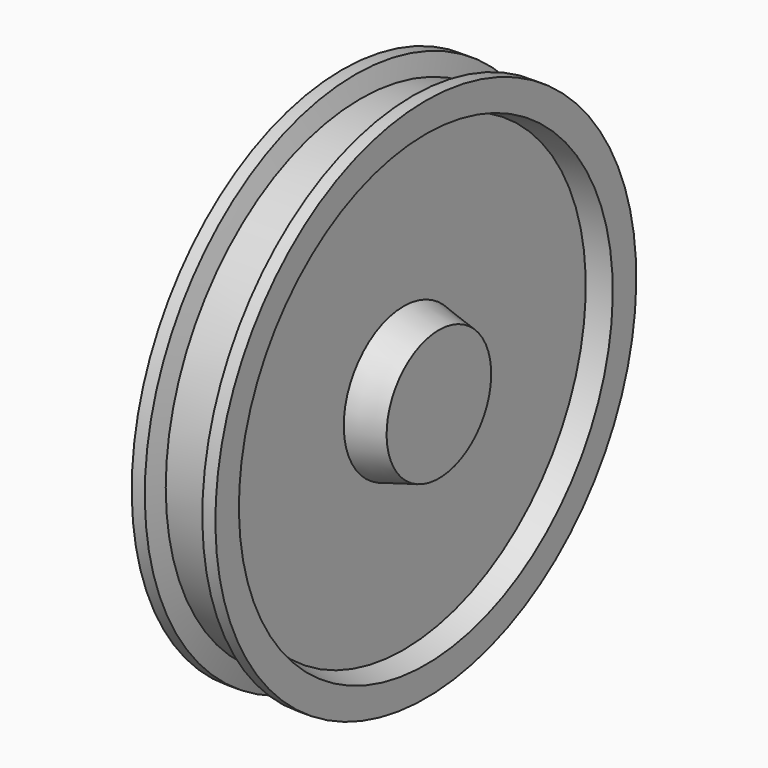
from build123d import *


with BuildPart() as f1:
    # F0 (on Front) → F1 (revolve)
    with BuildSketch(Plane.XZ):
        Polygon((-84, 100), (-84, 0), (84, 0), (84, 100), (30, 114.469256), (30, 348.389727), (64, 357.5), (64, 402.5), (44, 402.5), (35.961524, 372.5), (0, 372.5), (-35.961524, 372.5), (-44, 402.5), (-64, 402.5), (-64, 357.5), (-30, 348.389727), (-30, 114.469256), align=None)
    revolve(axis=Axis((22.442533, 0, 0), (1, 0, 0)))


solid = f1.part
